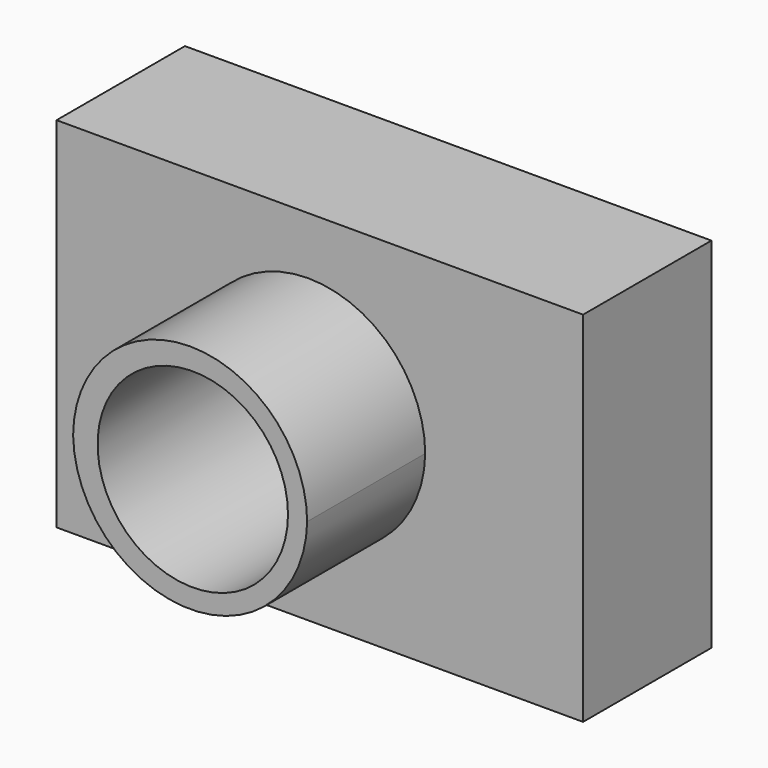
from build123d import *

# Parameters (mm, degrees)
F0_W     = 82.048778
F0_H     = 55.873601
F0_R     = 14.069549
F1_DEPTH = 25
F3_DEPTH = 48
F4_R     = 14.835097
F5_DEPTH = 49


with BuildPart() as f1:
    # F0 (on Front) → F1 (new body)
    with BuildSketch(Plane.XZ):
        with Locations((1.397414, -0.891356)):
            Rectangle(F0_W, F0_H)
        Circle(F0_R, mode=Mode.SUBTRACT)
    extrude(amount=F1_DEPTH)

    # F2 (on Front) → F3 (join)
    with BuildSketch(Plane.XZ):
        with BuildLine():
            ThreePointArc((-18.651316, 0), (-0.414473, -17.935191), (17.82237, 0))
            ThreePointArc((17.82237, 0), (-0.414473, 18.118096), (-18.651316, 0))
        make_face()
    extrude(amount=F3_DEPTH)

    # F4 (on Front) → F5 (cut)
    with BuildSketch(Plane.XZ):
        Circle(F4_R)
    extrude(amount=F5_DEPTH, mode=Mode.SUBTRACT)


solid = f1.part
